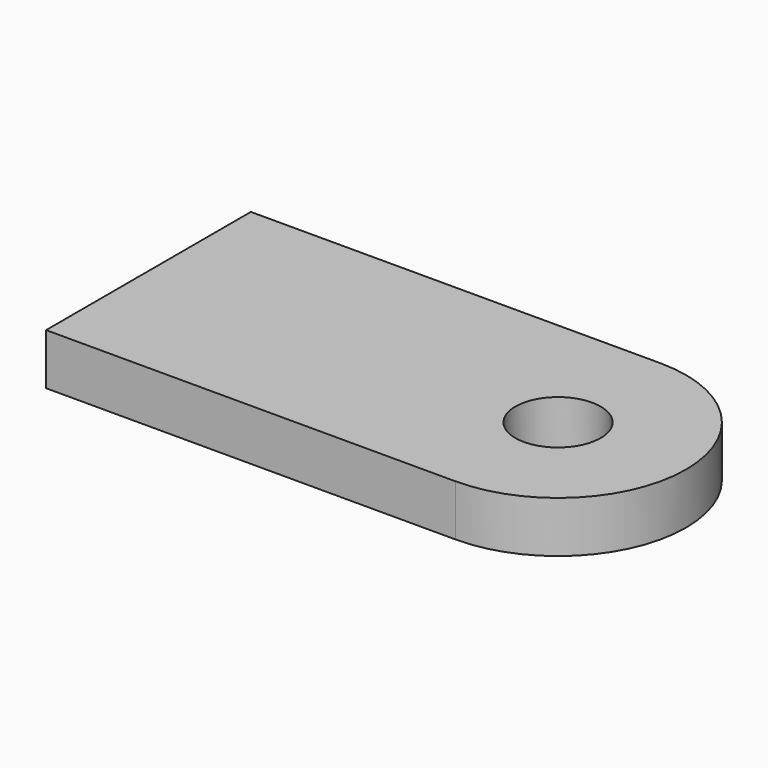
from build123d import *

# Parameters (mm, degrees)
F1_DEPTH = 3


with BuildPart() as f1:
    # F0 (on Top) → F1 (new body)
    with BuildSketch(Plane.XY):
        with BuildLine():
            ThreePointArc((26.5, -7.5), (24, -5), (21.5, -7.5))
            ThreePointArc((21.5, -7.5), (24, -10), (26.5, -7.5))
        make_face()
        with BuildLine():
            Line((24, 0), (0, 0))
            Line((0, 0), (0, -7.5))
            Line((0, -7.5), (0, -15))
            Line((0, -15), (24, -15))
            ThreePointArc((24, -15), (31.5, -7.5), (24, 0))
        make_face()
        with BuildLine():
            ThreePointArc((26.5, -7.5), (24, -10), (21.5, -7.5))
            ThreePointArc((21.5, -7.5), (24, -5), (26.5, -7.5))
        make_face(mode=Mode.SUBTRACT)
    extrude(amount=F1_DEPTH)


solid = f1.part
